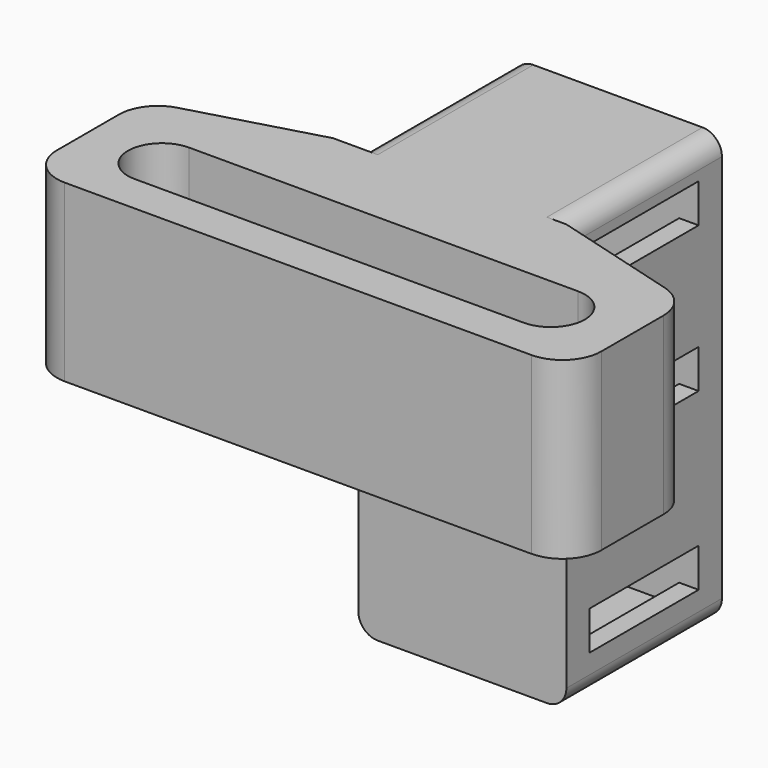
from build123d import *

# Parameters (mm, degrees)
PAD120_DEPTH            = 5
POCKET099_DEPTH         = 3.5
PAD124_DEPTH            = 9
BODY087_PITCH_ANGLE     = 90
BODY087_PLACEMENT_ANGLE = 90


with BuildPart() as part:
    # Sketch244 → Pad120 (new body, symmetric)
    with BuildSketch(Plane.XY):
        with BuildLine():
            Line((-11, 3.7), (-11, -5))
            ThreePointArc((-11, -5), (-10.707107, -5.707107), (-10, -6))
            Line((-10, -6), (10, -6))
            ThreePointArc((10, -6), (10.707107, -5.707107), (11, -5))
            Line((11, -5), (11, 3.7))
            ThreePointArc((11, 3.7), (10.707107, 4.407107), (10, 4.7))
            Line((10, 4.7), (-10, 4.7))
            ThreePointArc((-10, 4.7), (-10.707107, 4.407107), (-11, 3.7))
        make_face()
    extrude(amount=PAD120_DEPTH, both=True)

    # Sketch245 → Pocket099 (cut, symmetric)
    with BuildSketch(Plane.XY):
        Polygon((-10.05, 10), (-10.05, -5), (-9.5, -5), (-9.5, -12), (-7.5, -12), (-7.5, -5), (-2, -5), (-2, -12), (0, -12), (0, -5), (7, -5), (7, -12), (9, -12), (9, -5), (10.05, -5), (10.05, 10), align=None)
    extrude(amount=POCKET099_DEPTH, both=True, mode=Mode.SUBTRACT)

    # Sketch253 (on Face1 of Pocket099) → Pad124 (join)
    with BuildSketch(Plane.YZ.offset(-11)):
        with BuildLine():
            ThreePointArc((-10, -9.25), (-11.75, -11), (-10, -12.75))
            Line((-10, -12.75), (0, -12.75))
            Line((0, -14.75), (0, -12.75))
            Line((-12, -14.75), (0, -14.75))
            ThreePointArc((-14, -12.75), (-13.414214, -14.164214), (-12, -14.75))
            Line((-14, -8.765096), (-14, -12.75))
            ThreePointArc((-12.541491, -6.839794), (-13.594205, -7.557409), (-14, -8.765096))
            Line((-12.541491, -6.839794), (-6, -5))
            Line((0, -5), (-6, -5))
            Line((0, -9.25), (0, -5))
            Line((-10, -9.25), (0, -9.25))
        make_face()
    pad124 = extrude(amount=PAD124_DEPTH)

    # Mirrored012: Pad124 across Sketch253 V_Axis
    add(pad124.mirror(Plane(origin=(-11, 0, 0), x_dir=(1, 0, 0), z_dir=(0, 1, 0))))


with BuildPart() as part_1:
    # Body087 pitch: moved
    add(part.part.rotate(Axis((0, 0, 0), (0, 1, 0)), BODY087_PITCH_ANGLE))


with BuildPart() as part_2:
    # Body087 placement: moved
    add(part_1.part.moved(Location((0, 0, 0))).rotate(Axis((0, 0, 0), (0, 0, 1)), BODY087_PLACEMENT_ANGLE))


solid = part_2.part
